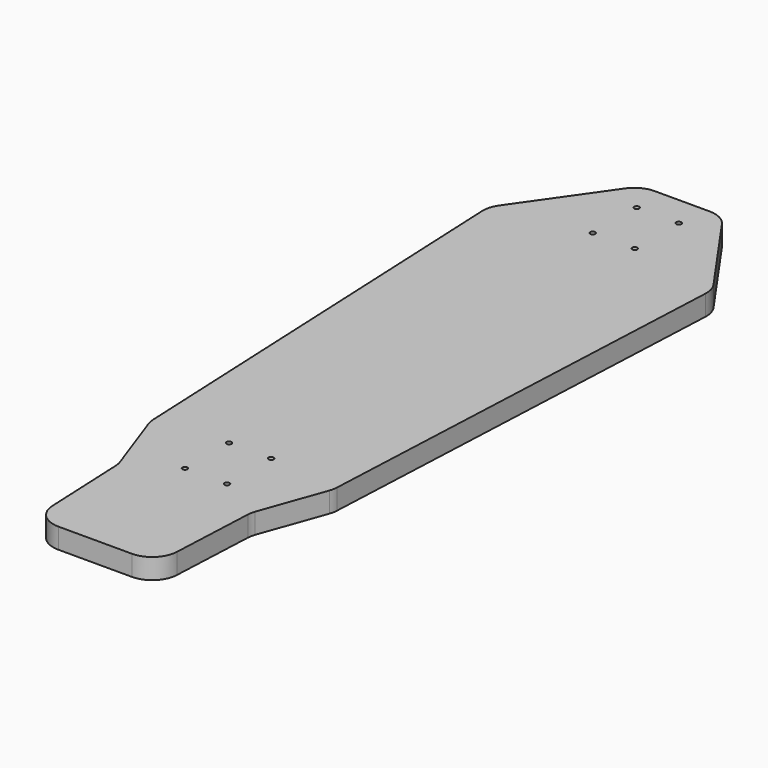
from build123d import *

# Parameters (mm, degrees)
F0_W     = 110
F0_H     = 720
F0_R     = 2.5
F2_DEPTH = 20
F4_DEPTH = 20.001


with BuildPart() as f2:
    # F0 (on Top) → F2 (new body)
    with BuildSketch(Plane.XY):
        with Locations((-55, 0)):
            Rectangle(F0_W, F0_H)
        with Locations((-20.6375, -223.975)):
            Circle(F0_R, mode=Mode.SUBTRACT)
        with Locations((-20.6375, -170)):
            Circle(F0_R, mode=Mode.SUBTRACT)
        with Locations((-20.6375, 276.025)):
            Circle(F0_R, mode=Mode.SUBTRACT)
        with Locations((-20.6375, 330)):
            Circle(F0_R, mode=Mode.SUBTRACT)
        with Locations((55, 0)):
            Rectangle(F0_W, F0_H)
        with Locations((20.6375, -223.975)):
            Circle(F0_R, mode=Mode.SUBTRACT)
        with Locations((20.6375, -170)):
            Circle(F0_R, mode=Mode.SUBTRACT)
        with Locations((20.6375, 276.025)):
            Circle(F0_R, mode=Mode.SUBTRACT)
        with Locations((20.6375, 330)):
            Circle(F0_R, mode=Mode.SUBTRACT)
    extrude(amount=-F2_DEPTH)

    # F3 (on face) → F4 (intersect, through all)
    with BuildSketch(Plane.XY):
        with BuildLine():
            ThreePointArc((-26.983611, 360), (-38.52887, 357.174467), (-47.464409, 349.336559))
            Line((-47.464409, 349.336559), (-105.120194, 266.971152))
            ThreePointArc((-105.120194, 266.971152), (-108.647379, 259.607162), (-109.613609, 251.499402))
            Line((-109.613609, 251.499402), (-90.170175, -176.256156))
            ThreePointArc((-90.170175, -176.256156), (-89.725907, -179.946085), (-88.739509, -183.529375))
            Line((-88.739509, -183.529375), (-66.260491, -246.470625))
            ThreePointArc((-66.260491, -246.470625), (-65.274093, -250.053915), (-64.829825, -253.743844))
            Line((-64.829825, -253.743844), (-61.084764, -336.135192))
            ThreePointArc((-61.084764, -336.135192), (-53.382207, -353.074565), (-36.110551, -360))
            Line((-36.110551, -360), (36.110551, -360))
            ThreePointArc((36.110551, -360), (53.382207, -353.074565), (61.084764, -336.135192))
            Line((61.084764, -336.135192), (64.829825, -253.743844))
            ThreePointArc((64.829825, -253.743844), (65.274093, -250.053915), (66.260491, -246.470625))
            Line((66.260491, -246.470625), (88.739509, -183.529375))
            ThreePointArc((88.739509, -183.529375), (89.725907, -179.946085), (90.170175, -176.256156))
            Line((90.170175, -176.256156), (109.613609, 251.499402))
            ThreePointArc((109.613609, 251.499402), (108.647379, 259.607162), (105.120194, 266.971152))
            Line((105.120194, 266.971152), (47.464409, 349.336559))
            ThreePointArc((47.464409, 349.336559), (38.52887, 357.174467), (26.983611, 360))
            Line((26.983611, 360), (-26.983611, 360))
        make_face()
    extrude(amount=-F4_DEPTH, mode=Mode.INTERSECT)


solid = f2.part
